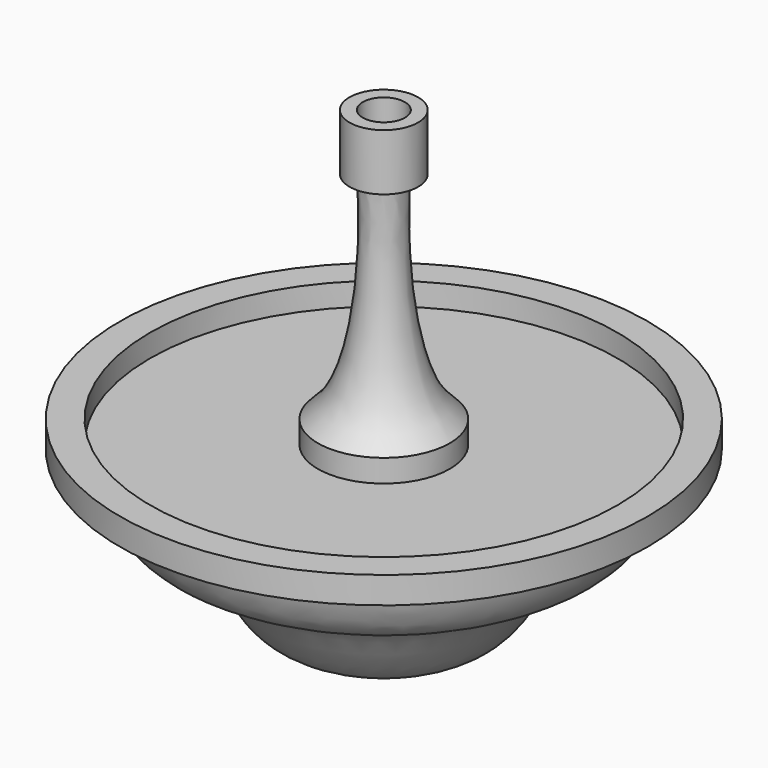
from build123d import *

# Parameters (mm, degrees)
F2_R     = 52.4597780646
F2_R_2   = 14.7995962225
F3_DEPTH = 5.08
F4_R     = 4.734417081
F5_DEPTH = 9.906


with BuildPart() as f1:
    # F0 (on Front) → F1 (revolve)
    with BuildSketch(Plane.XZ):
        with BuildLine():
            Line((51.5943290595, -9.6055062943), (56.3692913846, -9.6055062943))
            Line((56.3692913846, -9.6055062943), (59.2558380857, -9.6055062943))
            Line((59.2558380857, -9.6055062943), (59.2558380857, -3.5977592756))
            Line((59.2558380857, -3.5977592756), (14.7995962225, -3.5977592756))
            add(Edge.make_bspline(
                [(14.7995962225, -3.5977592756), (12.9266153868, -1.754985324), (8.1131582041, 2.9808420721), (4.0918168267, 24.7912842254), (4.5096354849, 38.1383005567), (4.7167390869, 44.7541268357)],
                knots=[0, 0, 0, 0, 0.2431325449, 0.6248372392, 1, 1, 1, 1], degree=3))
            Line((4.7167390869, 44.7541268357), (7.6957641878, 44.7541268357))
            Line((7.6957641878, 44.7541268357), (7.6957641878, 57.4541268357))
            Line((7.6957641878, 57.4541268357), (0, 57.4541268357))
            Line((0, 57.4541268357), (0, -48.9155651629))
            add(Edge.make_bspline(
                [(51.5943290595, -9.6055062943), (50.351203821, -14.641850477), (47.8964006913, -24.587135526), (31.4519415034, -25.5645820307), (25.3670083123, -46.2486306462), (8.8589921776, -47.9841840626), (0, -48.9155651629)],
                knots=[0, 0, 0, 0, 0.2264260994, 0.4471243373, 0.7033004364, 1, 1, 1, 1], degree=3))
        make_face()
    revolve(axis=Axis((0, 0, 4.2692808364), (0, 0, -1)))

    # F2 (on face) → F3 (cut)
    with BuildSketch(Plane.XY.offset(-3.5977592756)):
        Circle(F2_R)
        Circle(F2_R_2, mode=Mode.SUBTRACT)
    extrude(amount=-F3_DEPTH, mode=Mode.SUBTRACT)

    # F4 (on face) → F5 (cut)
    with BuildSketch(Plane.XY.offset(57.4541268357)):
        Circle(F4_R)
    extrude(amount=-F5_DEPTH, mode=Mode.SUBTRACT)


solid = f1.part
